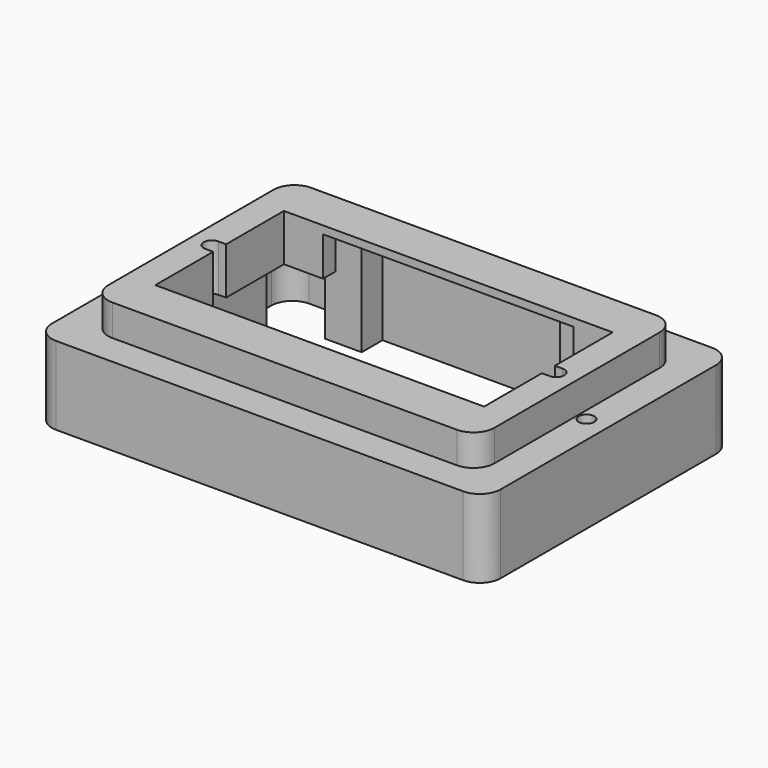
from build123d import *

# Parameters (mm, degrees)
F1_DEPTH  = 7.5
F3_DEPTH  = 6
F5_DEPTH  = 3
F7_DEPTH  = 5
F8_W      = 24
F8_H      = 1.5
F9_DEPTH  = 3.75
F10_W     = 19
F10_H     = 2.5
F11_DEPTH = 9.7
F12_R     = 0.75
F13_DEPTH = 7.7
F14_W     = 24
F14_H     = 1.5
F15_DEPTH = 3.75
F16_DEPTH = 9.7


with BuildPart() as f1:
    # F0 (on Top) → F1 (new body)
    with BuildSketch(Plane.XY):
        with BuildLine():
            Line((-19.5, -14.9), (19.5, -14.9))
            ThreePointArc((19.5, -14.9), (20.9142135624, -14.3142135624), (21.5, -12.9))
            Line((21.5, -12.9), (21.5, 12.9))
            ThreePointArc((21.5, 12.9), (20.9142135624, 14.3142135624), (19.5, 14.9))
            Line((19.5, 14.9), (-19.5, 14.9))
            ThreePointArc((-19.5, 14.9), (-20.9142135624, 14.3142135624), (-21.5, 12.9))
            Line((-21.5, 12.9), (-21.5, -12.9))
            ThreePointArc((-21.5, -12.9), (-20.9142135624, -14.3142135624), (-19.5, -14.9))
        make_face()
    extrude(amount=F1_DEPTH)

    # F2 (on Top) → F3 (cut)
    with BuildSketch(Plane.XY):
        with BuildLine():
            Line((-13, -9.2), (13, -9.2))
            Line((13, -9.2), (13, -12.9))
            Line((13, -12.9), (17.5, -12.9))
            ThreePointArc((17.5, -12.9), (18.9142135624, -12.3142135624), (19.5, -10.9))
            Line((19.5, -10.9), (19.5, -7.5))
            Line((19.5, -7.5), (17.25, -7.5))
            Line((17.25, -7.5), (17.25, 7.5))
            Line((17.25, 7.5), (19.5, 7.5))
            Line((19.5, 7.5), (19.5, 10.9))
            ThreePointArc((19.5, 10.9), (18.9142135624, 12.3142135624), (17.5, 12.9))
            Line((17.5, 12.9), (13, 12.9))
            Line((13, 12.9), (13, 9.2))
            Line((13, 9.2), (-13, 9.2))
            Line((-13, 9.2), (-13, 12.9))
            Line((-13, 12.9), (-17.5, 12.9))
            ThreePointArc((-17.5, 12.9), (-18.9142135624, 12.3142135624), (-19.5, 10.9))
            Line((-19.5, 10.9), (-19.5, 7.5))
            Line((-19.5, 7.5), (-17.25, 7.5))
            Line((-17.25, 7.5), (-17.25, -7.5))
            Line((-17.25, -7.5), (-19.5, -7.5))
            Line((-19.5, -7.5), (-19.5, -10.9))
            ThreePointArc((-19.5, -10.9), (-18.9142135624, -12.3142135624), (-17.5, -12.9))
            Line((-17.5, -12.9), (-13, -12.9))
            Line((-13, -12.9), (-13, -9.2))
        make_face()
    extrude(amount=F3_DEPTH, mode=Mode.SUBTRACT)

    # F4 (on face) → F5 (join)
    with BuildSketch(Plane.XY.offset(7.5)):
        with BuildLine():
            Line((-16.5, -11.9), (16.5, -11.9))
            ThreePointArc((16.5, -11.9), (17.9142135624, -11.3142135624), (18.5, -9.9))
            Line((18.5, -9.9), (18.5, 9.9))
            ThreePointArc((18.5, 9.9), (17.9142135624, 11.3142135624), (16.5, 11.9))
            Line((16.5, 11.9), (-16.5, 11.9))
            ThreePointArc((-16.5, 11.9), (-17.9142135624, 11.3142135624), (-18.5, 9.9))
            Line((-18.5, 9.9), (-18.5, -9.9))
            ThreePointArc((-18.5, -9.9), (-17.9142135624, -11.3142135624), (-16.5, -11.9))
        make_face()
    extrude(amount=F5_DEPTH)

    # F6 (on face) → F7 (cut)
    with BuildSketch(Plane.XY.offset(10.5)):
        with BuildLine():
            Line((-15.75, -7.7), (15.75, -7.7))
            Line((15.75, -7.7), (15.75, -0.7749841599))
            Line((15.75, -0.7749841599), (16.4950450141, -0.7749841599))
            ThreePointArc((16.4950450141, -0.7749841599), (17.27499604, -0.0024775056), (16.5, 0.775))
            Line((16.5, 0.775), (15.75, 0.775))
            Line((15.75, 0.775), (15.75, 7.7))
            Line((15.75, 7.7), (-15.75, 7.7))
            Line((-15.75, 7.7), (-15.75, 0.7739160408))
            Line((-15.75, 0.7739160408), (-16.459024863, 0.7739160408))
            ThreePointArc((-16.459024863, 0.7739160408), (-17.2747289628, 0.020494736), (-16.5, -0.775))
            Line((-16.5, -0.775), (-15.75, -0.775))
            Line((-15.75, -0.775), (-15.75, -7.7))
        make_face()
    extrude(amount=-F7_DEPTH, mode=Mode.SUBTRACT)

    # F8 (on face) → F9 (cut)
    with BuildSketch(Plane(origin=(0, 0, 6), x_dir=(1, 0, 0), z_dir=(0, 0, -1))):
        with Locations((0, -8.45)):
            Rectangle(F8_W, F8_H)
    extrude(amount=-F9_DEPTH, mode=Mode.SUBTRACT)

    # F10 (on face) → F11 (cut)
    with BuildSketch(Plane(origin=(0, 0, 0), x_dir=(1, 0, 0), z_dir=(0, 0, -1))):
        with Locations((0, -10.45)):
            Rectangle(F10_W, F10_H)
    extrude(amount=-F11_DEPTH, mode=Mode.SUBTRACT)

    # F12 (on face) → F13 (cut)
    with BuildSketch(Plane(origin=(0, 0, 0), x_dir=(1, 0, 0), z_dir=(0, 0, -1))):
        with Locations((19.4, 0)):
            Circle(F12_R)
        with Locations((-19.4, 0)):
            Circle(F12_R)
    extrude(amount=-F13_DEPTH, mode=Mode.SUBTRACT)

    # F14 (on face) → F15 (cut)
    with BuildSketch(Plane(origin=(0, 0, 6), x_dir=(1, 0, 0), z_dir=(0, 0, -1))):
        with Locations((0, 8.45)):
            Rectangle(F14_W, F14_H)
    extrude(amount=-F15_DEPTH, mode=Mode.SUBTRACT)

    # F10 (on face) → F16 (cut)
    with BuildSketch(Plane(origin=(0, 0, 0), x_dir=(1, 0, 0), z_dir=(0, 0, -1))):
        with Locations((0, 10.45)):
            Rectangle(F10_W, F10_H)
    extrude(amount=-F16_DEPTH, mode=Mode.SUBTRACT)


solid = f1.part
